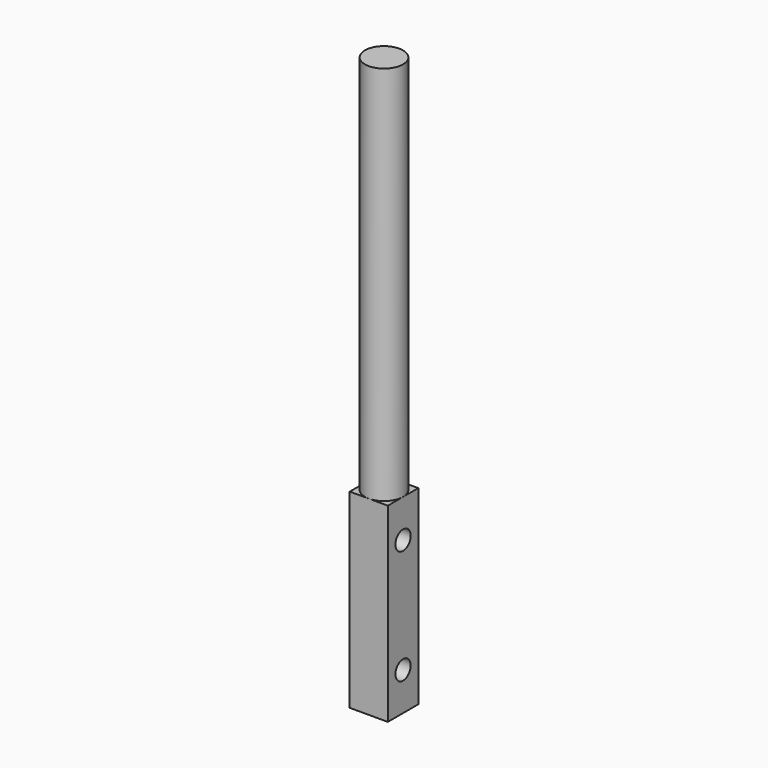
from build123d import *

# Parameters (mm, degrees)
F0_W     = 12.7
F0_H     = 12.7
F1_DEPTH = 63.5
F2_R     = 6.35
F3_DEPTH = 127
F4_R     = 3.175
F5_DEPTH = 25.4


with BuildPart() as f1:
    # F0 (on Top) → F1 (new body)
    with BuildSketch(Plane.XY):
        with Locations((6.35, 6.35)):
            Rectangle(F0_W, F0_H)
    extrude(amount=F1_DEPTH)

    # F2 (on face) → F3 (join)
    with BuildSketch(Plane.XY.offset(63.5)):
        with Locations((6.35, 6.35)):
            Circle(F2_R)
    extrude(amount=F3_DEPTH)

    # F4 (on face) → F5 (cut)
    with BuildSketch(Plane(origin=(0, 0, 0), x_dir=(0, -1, 0), z_dir=(-1, 0, 0))):
        with Locations((-6.35, 12.7)):
            Circle(F4_R)
        with Locations((-6.35, 50.8)):
            Circle(F4_R)
    extrude(amount=-F5_DEPTH, mode=Mode.SUBTRACT)


solid = f1.part
